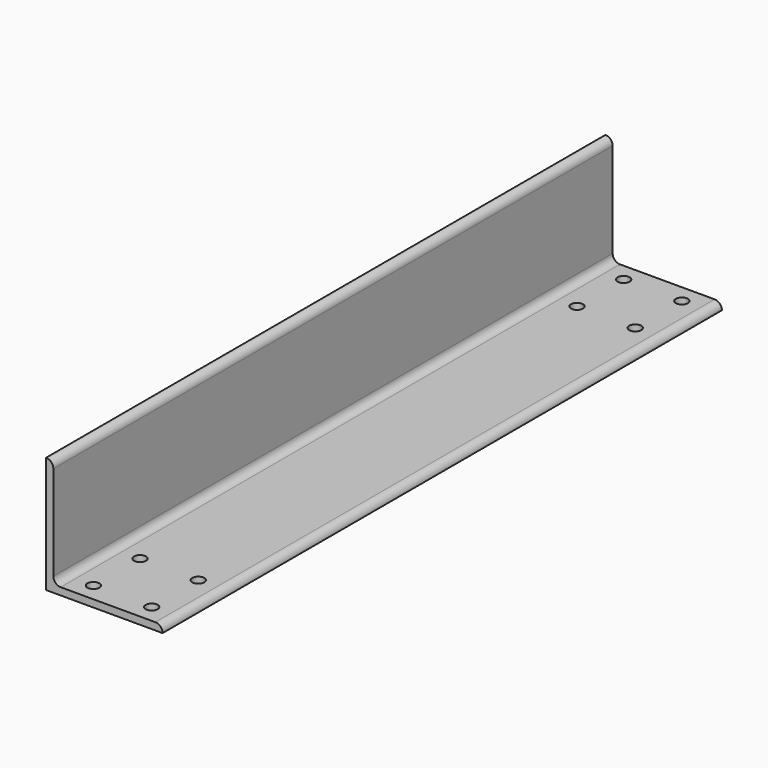
from build123d import *

# Parameters (mm, degrees)
F1_DEPTH = 304.8
F2_R     = 2.6162
F3_DEPTH = 3.176


with BuildPart() as f1:
    # F0 (on Front) → F1 (new body)
    with BuildSketch(Plane.XZ):
        with BuildLine():
            Line((-50.8, 0), (0, 0))
            ThreePointArc((0, 0), (-0.929936, 2.245064), (-3.175, 3.175))
            Line((-3.175, 3.175), (-44.45, 3.175))
            ThreePointArc((-44.45, 3.175), (-46.695064, 4.104936), (-47.625, 6.35))
            Line((-47.625, 6.35), (-47.625, 47.625))
            ThreePointArc((-47.625, 47.625), (-48.554936, 49.870064), (-50.8, 50.8))
            Line((-50.8, 50.8), (-50.8, 0))
        make_face()
    extrude(amount=F1_DEPTH)

    # F2 (on face) → F3 (cut, through all)
    with BuildSketch(Plane.XY.offset(3.175)):
        with Locations((-36.5125, -296.8625)):
            Circle(F2_R)
        with Locations((-36.5125, -7.9375)):
            Circle(F2_R)
        with Locations((-11.1125, -7.9375)):
            Circle(F2_R)
        with Locations((-36.5125, -33.3375)):
            Circle(F2_R)
        with Locations((-11.1125, -33.3375)):
            Circle(F2_R)
        with Locations((-36.5125, -271.4625)):
            Circle(F2_R)
        with Locations((-11.1125, -296.8625)):
            Circle(F2_R)
        with Locations((-11.1125, -271.4625)):
            Circle(F2_R)
    extrude(amount=-F3_DEPTH, mode=Mode.SUBTRACT)


solid = f1.part
